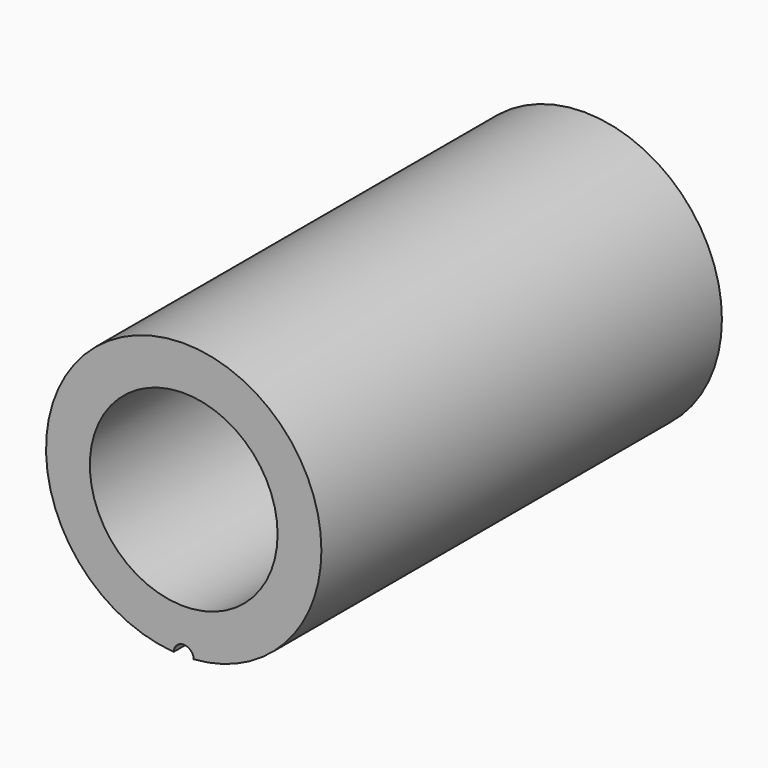
from build123d import *

# Parameters (mm, degrees)
F0_R          = 22
F0_R_2        = 15
F1_DEPTH      = 40
F1_DEPTH_BACK = 40
F3_D          = 3.2
F3_DEPTH      = 8
F3_TIP        = 0.9613769904


with BuildPart() as f1:
    # F0 (on Front) → F1 (new body, two sides)
    with BuildSketch(Plane.XZ) as f1_sk:
        Circle(F0_R)
        Circle(F0_R_2, mode=Mode.SUBTRACT)
    extrude(amount=F1_DEPTH)
    extrude(f1_sk.sketch, amount=-F1_DEPTH_BACK)

    # F3
    with Locations(Plane.XZ.offset(40)):
        with Locations((0, -22)):
            Hole(F3_D / 2, depth=F3_DEPTH)
            with Locations((0, 0, -(F3_DEPTH + F3_TIP / 2))):  # 118° drill point
                Cone(0, F3_D / 2, F3_TIP, mode=Mode.SUBTRACT)


solid = f1.part
